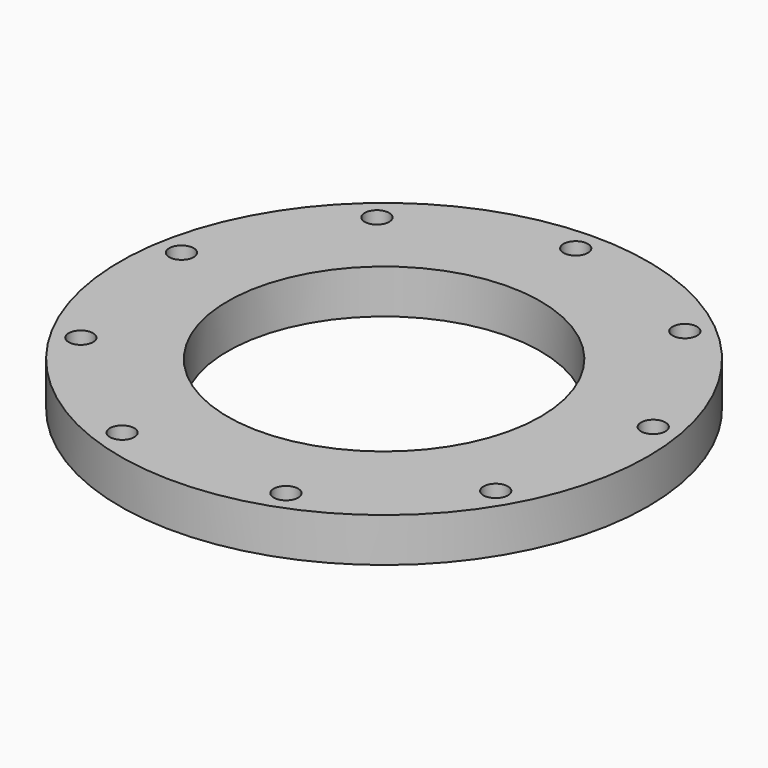
from build123d import *

# Parameters (mm, degrees)
SKETCH_R   = 54
SKETCH_R_2 = 32
SKETCH_R_3 = 2.5
PAD_DEPTH  = 9


with BuildPart() as part:
    # Sketch → Pad (new body)
    with BuildSketch(Plane.XY):
        Circle(SKETCH_R)
        Circle(SKETCH_R_2, mode=Mode.SUBTRACT)
        with Locations((31.496593, 37.536178)):
            Circle(SKETCH_R_3, mode=Mode.SUBTRACT)
        with Locations((48.25558, 8.508761)):
            Circle(SKETCH_R_3, mode=Mode.SUBTRACT)
        with Locations((42.435245, -24.5)):
            Circle(SKETCH_R_3, mode=Mode.SUBTRACT)
        with Locations((16.758987, -46.044938)):
            Circle(SKETCH_R_3, mode=Mode.SUBTRACT)
        with Locations((-16.758987, -46.044938)):
            Circle(SKETCH_R_3, mode=Mode.SUBTRACT)
        with Locations((-42.435245, -24.5)):
            Circle(SKETCH_R_3, mode=Mode.SUBTRACT)
        with Locations((-48.25558, 8.508761)):
            Circle(SKETCH_R_3, mode=Mode.SUBTRACT)
        with Locations((-31.496593, 37.536178)):
            Circle(SKETCH_R_3, mode=Mode.SUBTRACT)
        with Locations((0, 49)):
            Circle(SKETCH_R_3, mode=Mode.SUBTRACT)
    extrude(amount=PAD_DEPTH)


solid = part.part
